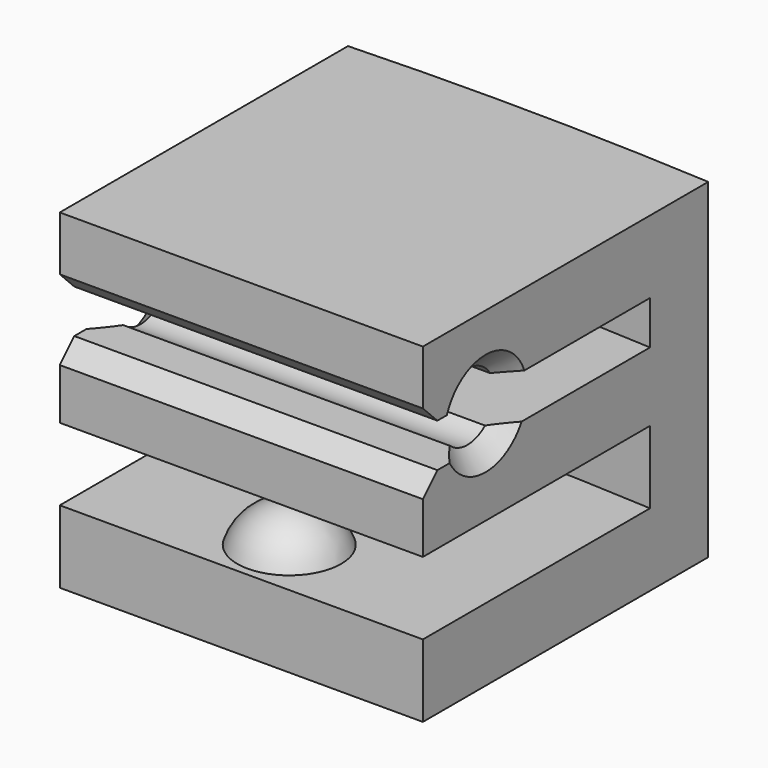
from build123d import *

# Parameters (mm, degrees)
BOX003_W          = 22
BOX003_H          = 27
BOX003_DEPTH      = 10
CYLINDER003_R     = 0.925
CYLINDER003_DEPTH = 21
CYLINDER_R        = 100
CYLINDER_DEPTH    = 1.2
CYLINDER002_R     = 100
CYLINDER002_DEPTH = 2
BOX_W             = 10
BOX_H             = 10
BOX_DEPTH         = 10
CYLINDER001_R     = 102
CYLINDER001_DEPTH = 10
CHAMFER_SIZE      = 0.5
CHAMFER001_SIZE   = 0.5


with BuildPart() as cube003:
    # Box003 → Box003 (new body)
    with BuildSketch(Plane(origin=(-10.7, 88.4, 9.1), x_dir=(1, 0, 0), z_dir=(0, 0, 1))):
        with Locations((11, 13.5)):
            Rectangle(BOX003_W, BOX003_H)
    extrude(amount=BOX003_DEPTH)


with BuildPart() as cylinder003:
    # Cylinder003 → Cylinder003 (new body)
    with BuildSketch(Plane(origin=(-6.389417, 94.159111, 6.6), x_dir=(0, 0, -1), z_dir=(1, 0, 0))):
        Circle(CYLINDER003_R)
    extrude(amount=CYLINDER003_DEPTH)


with BuildPart() as cylinder:
    # Cylinder → Cylinder (new body)
    with BuildSketch(Plane.XY.offset(5.9)):
        Circle(CYLINDER_R)
    extrude(amount=CYLINDER_DEPTH)


with BuildPart() as cylinder002:
    # Cylinder002 → Cylinder002 (new body)
    with BuildSketch(Plane.XY.offset(2)):
        Circle(CYLINDER002_R)
    extrude(amount=CYLINDER002_DEPTH)


with BuildPart() as cube:
    # Box → Box (new body)
    with BuildSketch(Plane(origin=(-4, 92, 0), x_dir=(1, 0, 0), z_dir=(0, 0, 1))):
        with Locations((5, 5)):
            Rectangle(BOX_W, BOX_H)
    extrude(amount=BOX_DEPTH)


with BuildPart() as chamfer001:
    # Cylinder001 → Cylinder001 (new body)
    with BuildSketch(Plane.XY):
        Circle(CYLINDER001_R)
    extrude(amount=CYLINDER001_DEPTH)

    # Common: intersect Cube
    add(cube.part, mode=Mode.INTERSECT)

    # Cut: cut Cylinder002
    add(cylinder002.part, mode=Mode.SUBTRACT)

    # Cut001: cut Cylinder
    add(cylinder.part, mode=Mode.SUBTRACT)

    # Cut002: cut Cylinder003
    add(cylinder003.part, mode=Mode.SUBTRACT)

    # Cut003: cut Cube003
    add(cube003.part, mode=Mode.SUBTRACT)

    # Chamfer
    chamfer_edges = [chamfer001.edges().sort_by_distance(p)[0] for p in [
        (1, 92, 7.1),
        (1, 92, 5.9),
    ]]
    chamfer(chamfer_edges, length=CHAMFER_SIZE)

    # Chamfer001
    chamfer001_edges = [chamfer001.edges().sort_by_distance(p)[0] for p in [
        (-4, 93.836524, 5.733073),
        (-4, 94.481698, 5.733073),
        (-4, 94.159111, 7.525),
        (6, 93.836524, 5.733073),
        (6, 94.481698, 5.733073),
        (6, 94.159111, 7.525),
    ]]
    chamfer(chamfer001_edges, length=CHAMFER001_SIZE)


with BuildPart() as fusion:
    # Sphere → Sphere (revolve)
    with BuildSketch(Plane(origin=(1, 93.65, 1.55), x_dir=(1, 0, 0), z_dir=(0, -1, 0))):
        with BuildLine():
            ThreePointArc((0, -1.5), (1.5, 0), (0, 1.5))
            Line((0, 1.5), (0, -1.5))
        make_face()
    revolve(axis=Axis((1, 93.65, 1.55), (0, 0, 1)))

    # Fusion: union Chamfer001
    add(chamfer001.part)


solid = fusion.part
